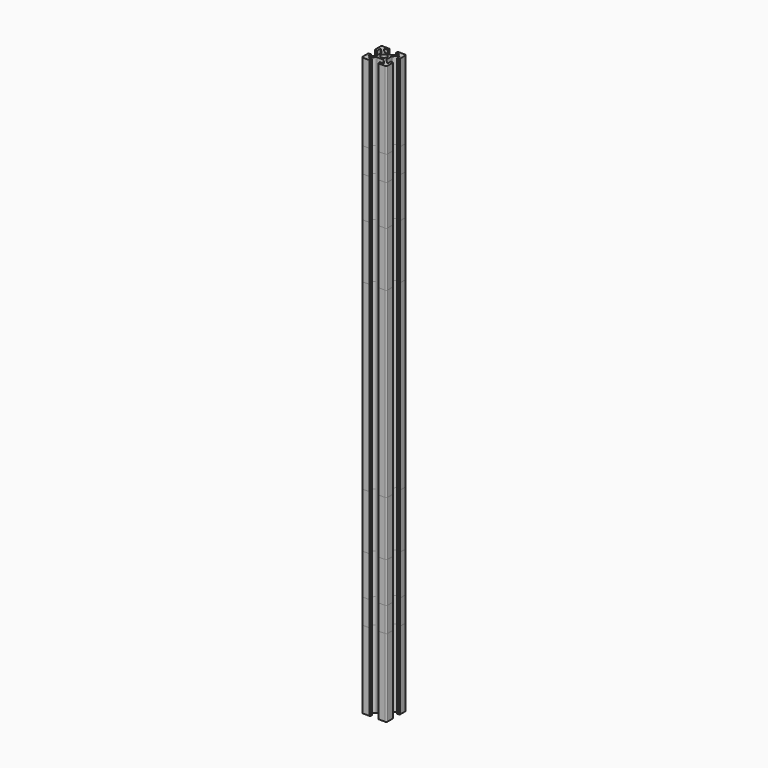
from build123d import *

# Parameters (mm, degrees)
F0_R     = 2.5
F1_DEPTH = 222.5
F2_DEPTH = 190
F3_DEPTH = 232.5
F4_DEPTH = 170
F5_DEPTH = 150
F6_DEPTH = 117.5
F7_DEPTH = 73.5


with BuildPart() as f1:
    # F0 (on Top) → F1 (new body, symmetric)
    with BuildSketch(Plane.XY):
        with BuildLine():
            Line((-3.0201010127, 4.2928932188), (-5.8736544033, 7.1464466094))
            ThreePointArc((-5.8736544033, 7.1464466094), (-5.9820407789, 7.6913417162), (-5.5201010127, 8))
            Line((-5.5201010127, 8), (-3.1, 8))
            Line((-3.1, 8), (-3.1, 9.5))
            Line((-3.1, 9.5), (-3.6, 9.5))
            Line((-3.6, 9.5), (-3.6, 10))
            Line((-3.6, 10), (-9, 10))
            ThreePointArc((-9, 10), (-9.7071067812, 9.7071067812), (-10, 9))
            Line((-10, 9), (-10, 3.6))
            Line((-10, 3.6), (-9.5, 3.6))
            Line((-9.5, 3.6), (-9.5, 3.1))
            Line((-9.5, 3.1), (-8, 3.1))
            Line((-8, 3.1), (-8, 5.5201010127))
            ThreePointArc((-8, 5.5201010127), (-7.6913417162, 5.9820407789), (-7.1464466094, 5.8736544033))
            Line((-7.1464466094, 5.8736544033), (-4.2928932188, 3.0201010127))
            ThreePointArc((-4.2928932188, 3.0201010127), (-4.0761204675, 2.6956776639), (-4, 2.3129942315))
            Line((-4, 2.3129942315), (-4, 0))
            Line((-4, 0), (-4, -2.3129942315))
            ThreePointArc((-4, -2.3129942315), (-4.0761204675, -2.6956776639), (-4.2928932188, -3.0201010127))
            Line((-4.2928932188, -3.0201010127), (-7.1464466094, -5.8736544033))
            ThreePointArc((-7.1464466094, -5.8736544033), (-7.6913417162, -5.9820407789), (-8, -5.5201010127))
            Line((-8, -5.5201010127), (-8, -3.1))
            Line((-8, -3.1), (-9.5, -3.1))
            Line((-9.5, -3.1), (-9.5, -3.6))
            Line((-9.5, -3.6), (-10, -3.6))
            Line((-10, -3.6), (-10, -9))
            ThreePointArc((-10, -9), (-9.7071067812, -9.7071067812), (-9, -10))
            Line((-9, -10), (-3.6, -10))
            Line((-3.6, -10), (-3.6, -9.5))
            Line((-3.6, -9.5), (-3.1, -9.5))
            Line((-3.1, -9.5), (-3.1, -8))
            Line((-3.1, -8), (-5.5201010127, -8))
            ThreePointArc((-5.5201010127, -8), (-5.9820407789, -7.6913417162), (-5.8736544033, -7.1464466094))
            Line((-5.8736544033, -7.1464466094), (-3.0201010127, -4.2928932188))
            ThreePointArc((-3.0201010127, -4.2928932188), (-2.6956776639, -4.0761204675), (-2.3129942315, -4))
            Line((-2.3129942315, -4), (0, -4))
            Line((0, -4), (2.3129942315, -4))
            ThreePointArc((2.3129942315, -4), (2.6956776639, -4.0761204675), (3.0201010127, -4.2928932188))
            Line((3.0201010127, -4.2928932188), (5.8736544033, -7.1464466094))
            ThreePointArc((5.8736544033, -7.1464466094), (5.9820407789, -7.6913417162), (5.5201010127, -8))
            Line((5.5201010127, -8), (3.1, -8))
            Line((3.1, -8), (3.1, -9.5))
            Line((3.1, -9.5), (3.6, -9.5))
            Line((3.6, -9.5), (3.6, -10))
            Line((3.6, -10), (9, -10))
            ThreePointArc((9, -10), (9.7071067812, -9.7071067812), (10, -9))
            Line((10, -9), (10, -3.6))
            Line((10, -3.6), (9.5, -3.6))
            Line((9.5, -3.6), (9.5, -3.1))
            Line((9.5, -3.1), (8, -3.1))
            Line((8, -3.1), (8, -5.5201010127))
            ThreePointArc((8, -5.5201010127), (7.6913417162, -5.9820407789), (7.1464466094, -5.8736544033))
            Line((7.1464466094, -5.8736544033), (4.2928932188, -3.0201010127))
            ThreePointArc((4.2928932188, -3.0201010127), (4.0761204675, -2.6956776639), (4, -2.3129942315))
            Line((4, -2.3129942315), (4, 0))
            Line((4, 0), (4, 2.3129942315))
            ThreePointArc((4, 2.3129942315), (4.0761204675, 2.6956776639), (4.2928932188, 3.0201010127))
            Line((4.2928932188, 3.0201010127), (7.1464466094, 5.8736544033))
            ThreePointArc((7.1464466094, 5.8736544033), (7.6913417162, 5.9820407789), (8, 5.5201010127))
            Line((8, 5.5201010127), (8, 3.1))
            Line((8, 3.1), (9.5, 3.1))
            Line((9.5, 3.1), (9.5, 3.6))
            Line((9.5, 3.6), (10, 3.6))
            Line((10, 3.6), (10, 9))
            ThreePointArc((10, 9), (9.7071067812, 9.7071067812), (9, 10))
            Line((9, 10), (3.6, 10))
            Line((3.6, 10), (3.6, 9.5))
            Line((3.6, 9.5), (3.1, 9.5))
            Line((3.1, 9.5), (3.1, 8))
            Line((3.1, 8), (5.5201010127, 8))
            ThreePointArc((5.5201010127, 8), (5.9820407789, 7.6913417162), (5.8736544033, 7.1464466094))
            Line((5.8736544033, 7.1464466094), (3.0201010127, 4.2928932188))
            ThreePointArc((3.0201010127, 4.2928932188), (2.6956776639, 4.0761204675), (2.3129942315, 4))
            Line((2.3129942315, 4), (0, 4))
            Line((0, 4), (-2.3129942315, 4))
            ThreePointArc((-2.3129942315, 4), (-2.6956776639, 4.0761204675), (-3.0201010127, 4.2928932188))
        make_face()
        Circle(F0_R, mode=Mode.SUBTRACT)
    extrude(amount=F1_DEPTH, both=True)


with BuildPart() as f2:
    # F0 (on Top) → F2 (new body, symmetric)
    with BuildSketch(Plane.XY):
        with BuildLine():
            Line((-3.0201010127, 4.2928932188), (-5.8736544033, 7.1464466094))
            ThreePointArc((-5.8736544033, 7.1464466094), (-5.9820407789, 7.6913417162), (-5.5201010127, 8))
            Line((-5.5201010127, 8), (-3.1, 8))
            Line((-3.1, 8), (-3.1, 9.5))
            Line((-3.1, 9.5), (-3.6, 9.5))
            Line((-3.6, 9.5), (-3.6, 10))
            Line((-3.6, 10), (-9, 10))
            ThreePointArc((-9, 10), (-9.7071067812, 9.7071067812), (-10, 9))
            Line((-10, 9), (-10, 3.6))
            Line((-10, 3.6), (-9.5, 3.6))
            Line((-9.5, 3.6), (-9.5, 3.1))
            Line((-9.5, 3.1), (-8, 3.1))
            Line((-8, 3.1), (-8, 5.5201010127))
            ThreePointArc((-8, 5.5201010127), (-7.6913417162, 5.9820407789), (-7.1464466094, 5.8736544033))
            Line((-7.1464466094, 5.8736544033), (-4.2928932188, 3.0201010127))
            ThreePointArc((-4.2928932188, 3.0201010127), (-4.0761204675, 2.6956776639), (-4, 2.3129942315))
            Line((-4, 2.3129942315), (-4, 0))
            Line((-4, 0), (-4, -2.3129942315))
            ThreePointArc((-4, -2.3129942315), (-4.0761204675, -2.6956776639), (-4.2928932188, -3.0201010127))
            Line((-4.2928932188, -3.0201010127), (-7.1464466094, -5.8736544033))
            ThreePointArc((-7.1464466094, -5.8736544033), (-7.6913417162, -5.9820407789), (-8, -5.5201010127))
            Line((-8, -5.5201010127), (-8, -3.1))
            Line((-8, -3.1), (-9.5, -3.1))
            Line((-9.5, -3.1), (-9.5, -3.6))
            Line((-9.5, -3.6), (-10, -3.6))
            Line((-10, -3.6), (-10, -9))
            ThreePointArc((-10, -9), (-9.7071067812, -9.7071067812), (-9, -10))
            Line((-9, -10), (-3.6, -10))
            Line((-3.6, -10), (-3.6, -9.5))
            Line((-3.6, -9.5), (-3.1, -9.5))
            Line((-3.1, -9.5), (-3.1, -8))
            Line((-3.1, -8), (-5.5201010127, -8))
            ThreePointArc((-5.5201010127, -8), (-5.9820407789, -7.6913417162), (-5.8736544033, -7.1464466094))
            Line((-5.8736544033, -7.1464466094), (-3.0201010127, -4.2928932188))
            ThreePointArc((-3.0201010127, -4.2928932188), (-2.6956776639, -4.0761204675), (-2.3129942315, -4))
            Line((-2.3129942315, -4), (0, -4))
            Line((0, -4), (2.3129942315, -4))
            ThreePointArc((2.3129942315, -4), (2.6956776639, -4.0761204675), (3.0201010127, -4.2928932188))
            Line((3.0201010127, -4.2928932188), (5.8736544033, -7.1464466094))
            ThreePointArc((5.8736544033, -7.1464466094), (5.9820407789, -7.6913417162), (5.5201010127, -8))
            Line((5.5201010127, -8), (3.1, -8))
            Line((3.1, -8), (3.1, -9.5))
            Line((3.1, -9.5), (3.6, -9.5))
            Line((3.6, -9.5), (3.6, -10))
            Line((3.6, -10), (9, -10))
            ThreePointArc((9, -10), (9.7071067812, -9.7071067812), (10, -9))
            Line((10, -9), (10, -3.6))
            Line((10, -3.6), (9.5, -3.6))
            Line((9.5, -3.6), (9.5, -3.1))
            Line((9.5, -3.1), (8, -3.1))
            Line((8, -3.1), (8, -5.5201010127))
            ThreePointArc((8, -5.5201010127), (7.6913417162, -5.9820407789), (7.1464466094, -5.8736544033))
            Line((7.1464466094, -5.8736544033), (4.2928932188, -3.0201010127))
            ThreePointArc((4.2928932188, -3.0201010127), (4.0761204675, -2.6956776639), (4, -2.3129942315))
            Line((4, -2.3129942315), (4, 0))
            Line((4, 0), (4, 2.3129942315))
            ThreePointArc((4, 2.3129942315), (4.0761204675, 2.6956776639), (4.2928932188, 3.0201010127))
            Line((4.2928932188, 3.0201010127), (7.1464466094, 5.8736544033))
            ThreePointArc((7.1464466094, 5.8736544033), (7.6913417162, 5.9820407789), (8, 5.5201010127))
            Line((8, 5.5201010127), (8, 3.1))
            Line((8, 3.1), (9.5, 3.1))
            Line((9.5, 3.1), (9.5, 3.6))
            Line((9.5, 3.6), (10, 3.6))
            Line((10, 3.6), (10, 9))
            ThreePointArc((10, 9), (9.7071067812, 9.7071067812), (9, 10))
            Line((9, 10), (3.6, 10))
            Line((3.6, 10), (3.6, 9.5))
            Line((3.6, 9.5), (3.1, 9.5))
            Line((3.1, 9.5), (3.1, 8))
            Line((3.1, 8), (5.5201010127, 8))
            ThreePointArc((5.5201010127, 8), (5.9820407789, 7.6913417162), (5.8736544033, 7.1464466094))
            Line((5.8736544033, 7.1464466094), (3.0201010127, 4.2928932188))
            ThreePointArc((3.0201010127, 4.2928932188), (2.6956776639, 4.0761204675), (2.3129942315, 4))
            Line((2.3129942315, 4), (0, 4))
            Line((0, 4), (-2.3129942315, 4))
            ThreePointArc((-2.3129942315, 4), (-2.6956776639, 4.0761204675), (-3.0201010127, 4.2928932188))
        make_face()
        Circle(F0_R, mode=Mode.SUBTRACT)
    extrude(amount=F2_DEPTH, both=True)


with BuildPart() as f3:
    # F0 (on Top) → F3 (new body, symmetric)
    with BuildSketch(Plane.XY):
        with BuildLine():
            Line((-3.0201010127, 4.2928932188), (-5.8736544033, 7.1464466094))
            ThreePointArc((-5.8736544033, 7.1464466094), (-5.9820407789, 7.6913417162), (-5.5201010127, 8))
            Line((-5.5201010127, 8), (-3.1, 8))
            Line((-3.1, 8), (-3.1, 9.5))
            Line((-3.1, 9.5), (-3.6, 9.5))
            Line((-3.6, 9.5), (-3.6, 10))
            Line((-3.6, 10), (-9, 10))
            ThreePointArc((-9, 10), (-9.7071067812, 9.7071067812), (-10, 9))
            Line((-10, 9), (-10, 3.6))
            Line((-10, 3.6), (-9.5, 3.6))
            Line((-9.5, 3.6), (-9.5, 3.1))
            Line((-9.5, 3.1), (-8, 3.1))
            Line((-8, 3.1), (-8, 5.5201010127))
            ThreePointArc((-8, 5.5201010127), (-7.6913417162, 5.9820407789), (-7.1464466094, 5.8736544033))
            Line((-7.1464466094, 5.8736544033), (-4.2928932188, 3.0201010127))
            ThreePointArc((-4.2928932188, 3.0201010127), (-4.0761204675, 2.6956776639), (-4, 2.3129942315))
            Line((-4, 2.3129942315), (-4, 0))
            Line((-4, 0), (-4, -2.3129942315))
            ThreePointArc((-4, -2.3129942315), (-4.0761204675, -2.6956776639), (-4.2928932188, -3.0201010127))
            Line((-4.2928932188, -3.0201010127), (-7.1464466094, -5.8736544033))
            ThreePointArc((-7.1464466094, -5.8736544033), (-7.6913417162, -5.9820407789), (-8, -5.5201010127))
            Line((-8, -5.5201010127), (-8, -3.1))
            Line((-8, -3.1), (-9.5, -3.1))
            Line((-9.5, -3.1), (-9.5, -3.6))
            Line((-9.5, -3.6), (-10, -3.6))
            Line((-10, -3.6), (-10, -9))
            ThreePointArc((-10, -9), (-9.7071067812, -9.7071067812), (-9, -10))
            Line((-9, -10), (-3.6, -10))
            Line((-3.6, -10), (-3.6, -9.5))
            Line((-3.6, -9.5), (-3.1, -9.5))
            Line((-3.1, -9.5), (-3.1, -8))
            Line((-3.1, -8), (-5.5201010127, -8))
            ThreePointArc((-5.5201010127, -8), (-5.9820407789, -7.6913417162), (-5.8736544033, -7.1464466094))
            Line((-5.8736544033, -7.1464466094), (-3.0201010127, -4.2928932188))
            ThreePointArc((-3.0201010127, -4.2928932188), (-2.6956776639, -4.0761204675), (-2.3129942315, -4))
            Line((-2.3129942315, -4), (0, -4))
            Line((0, -4), (2.3129942315, -4))
            ThreePointArc((2.3129942315, -4), (2.6956776639, -4.0761204675), (3.0201010127, -4.2928932188))
            Line((3.0201010127, -4.2928932188), (5.8736544033, -7.1464466094))
            ThreePointArc((5.8736544033, -7.1464466094), (5.9820407789, -7.6913417162), (5.5201010127, -8))
            Line((5.5201010127, -8), (3.1, -8))
            Line((3.1, -8), (3.1, -9.5))
            Line((3.1, -9.5), (3.6, -9.5))
            Line((3.6, -9.5), (3.6, -10))
            Line((3.6, -10), (9, -10))
            ThreePointArc((9, -10), (9.7071067812, -9.7071067812), (10, -9))
            Line((10, -9), (10, -3.6))
            Line((10, -3.6), (9.5, -3.6))
            Line((9.5, -3.6), (9.5, -3.1))
            Line((9.5, -3.1), (8, -3.1))
            Line((8, -3.1), (8, -5.5201010127))
            ThreePointArc((8, -5.5201010127), (7.6913417162, -5.9820407789), (7.1464466094, -5.8736544033))
            Line((7.1464466094, -5.8736544033), (4.2928932188, -3.0201010127))
            ThreePointArc((4.2928932188, -3.0201010127), (4.0761204675, -2.6956776639), (4, -2.3129942315))
            Line((4, -2.3129942315), (4, 0))
            Line((4, 0), (4, 2.3129942315))
            ThreePointArc((4, 2.3129942315), (4.0761204675, 2.6956776639), (4.2928932188, 3.0201010127))
            Line((4.2928932188, 3.0201010127), (7.1464466094, 5.8736544033))
            ThreePointArc((7.1464466094, 5.8736544033), (7.6913417162, 5.9820407789), (8, 5.5201010127))
            Line((8, 5.5201010127), (8, 3.1))
            Line((8, 3.1), (9.5, 3.1))
            Line((9.5, 3.1), (9.5, 3.6))
            Line((9.5, 3.6), (10, 3.6))
            Line((10, 3.6), (10, 9))
            ThreePointArc((10, 9), (9.7071067812, 9.7071067812), (9, 10))
            Line((9, 10), (3.6, 10))
            Line((3.6, 10), (3.6, 9.5))
            Line((3.6, 9.5), (3.1, 9.5))
            Line((3.1, 9.5), (3.1, 8))
            Line((3.1, 8), (5.5201010127, 8))
            ThreePointArc((5.5201010127, 8), (5.9820407789, 7.6913417162), (5.8736544033, 7.1464466094))
            Line((5.8736544033, 7.1464466094), (3.0201010127, 4.2928932188))
            ThreePointArc((3.0201010127, 4.2928932188), (2.6956776639, 4.0761204675), (2.3129942315, 4))
            Line((2.3129942315, 4), (0, 4))
            Line((0, 4), (-2.3129942315, 4))
            ThreePointArc((-2.3129942315, 4), (-2.6956776639, 4.0761204675), (-3.0201010127, 4.2928932188))
        make_face()
        Circle(F0_R, mode=Mode.SUBTRACT)
    extrude(amount=F3_DEPTH, both=True)


with BuildPart() as f4:
    # F0 (on Top) → F4 (new body, symmetric)
    with BuildSketch(Plane.XY):
        with BuildLine():
            Line((-3.0201010127, 4.2928932188), (-5.8736544033, 7.1464466094))
            ThreePointArc((-5.8736544033, 7.1464466094), (-5.9820407789, 7.6913417162), (-5.5201010127, 8))
            Line((-5.5201010127, 8), (-3.1, 8))
            Line((-3.1, 8), (-3.1, 9.5))
            Line((-3.1, 9.5), (-3.6, 9.5))
            Line((-3.6, 9.5), (-3.6, 10))
            Line((-3.6, 10), (-9, 10))
            ThreePointArc((-9, 10), (-9.7071067812, 9.7071067812), (-10, 9))
            Line((-10, 9), (-10, 3.6))
            Line((-10, 3.6), (-9.5, 3.6))
            Line((-9.5, 3.6), (-9.5, 3.1))
            Line((-9.5, 3.1), (-8, 3.1))
            Line((-8, 3.1), (-8, 5.5201010127))
            ThreePointArc((-8, 5.5201010127), (-7.6913417162, 5.9820407789), (-7.1464466094, 5.8736544033))
            Line((-7.1464466094, 5.8736544033), (-4.2928932188, 3.0201010127))
            ThreePointArc((-4.2928932188, 3.0201010127), (-4.0761204675, 2.6956776639), (-4, 2.3129942315))
            Line((-4, 2.3129942315), (-4, 0))
            Line((-4, 0), (-4, -2.3129942315))
            ThreePointArc((-4, -2.3129942315), (-4.0761204675, -2.6956776639), (-4.2928932188, -3.0201010127))
            Line((-4.2928932188, -3.0201010127), (-7.1464466094, -5.8736544033))
            ThreePointArc((-7.1464466094, -5.8736544033), (-7.6913417162, -5.9820407789), (-8, -5.5201010127))
            Line((-8, -5.5201010127), (-8, -3.1))
            Line((-8, -3.1), (-9.5, -3.1))
            Line((-9.5, -3.1), (-9.5, -3.6))
            Line((-9.5, -3.6), (-10, -3.6))
            Line((-10, -3.6), (-10, -9))
            ThreePointArc((-10, -9), (-9.7071067812, -9.7071067812), (-9, -10))
            Line((-9, -10), (-3.6, -10))
            Line((-3.6, -10), (-3.6, -9.5))
            Line((-3.6, -9.5), (-3.1, -9.5))
            Line((-3.1, -9.5), (-3.1, -8))
            Line((-3.1, -8), (-5.5201010127, -8))
            ThreePointArc((-5.5201010127, -8), (-5.9820407789, -7.6913417162), (-5.8736544033, -7.1464466094))
            Line((-5.8736544033, -7.1464466094), (-3.0201010127, -4.2928932188))
            ThreePointArc((-3.0201010127, -4.2928932188), (-2.6956776639, -4.0761204675), (-2.3129942315, -4))
            Line((-2.3129942315, -4), (0, -4))
            Line((0, -4), (2.3129942315, -4))
            ThreePointArc((2.3129942315, -4), (2.6956776639, -4.0761204675), (3.0201010127, -4.2928932188))
            Line((3.0201010127, -4.2928932188), (5.8736544033, -7.1464466094))
            ThreePointArc((5.8736544033, -7.1464466094), (5.9820407789, -7.6913417162), (5.5201010127, -8))
            Line((5.5201010127, -8), (3.1, -8))
            Line((3.1, -8), (3.1, -9.5))
            Line((3.1, -9.5), (3.6, -9.5))
            Line((3.6, -9.5), (3.6, -10))
            Line((3.6, -10), (9, -10))
            ThreePointArc((9, -10), (9.7071067812, -9.7071067812), (10, -9))
            Line((10, -9), (10, -3.6))
            Line((10, -3.6), (9.5, -3.6))
            Line((9.5, -3.6), (9.5, -3.1))
            Line((9.5, -3.1), (8, -3.1))
            Line((8, -3.1), (8, -5.5201010127))
            ThreePointArc((8, -5.5201010127), (7.6913417162, -5.9820407789), (7.1464466094, -5.8736544033))
            Line((7.1464466094, -5.8736544033), (4.2928932188, -3.0201010127))
            ThreePointArc((4.2928932188, -3.0201010127), (4.0761204675, -2.6956776639), (4, -2.3129942315))
            Line((4, -2.3129942315), (4, 0))
            Line((4, 0), (4, 2.3129942315))
            ThreePointArc((4, 2.3129942315), (4.0761204675, 2.6956776639), (4.2928932188, 3.0201010127))
            Line((4.2928932188, 3.0201010127), (7.1464466094, 5.8736544033))
            ThreePointArc((7.1464466094, 5.8736544033), (7.6913417162, 5.9820407789), (8, 5.5201010127))
            Line((8, 5.5201010127), (8, 3.1))
            Line((8, 3.1), (9.5, 3.1))
            Line((9.5, 3.1), (9.5, 3.6))
            Line((9.5, 3.6), (10, 3.6))
            Line((10, 3.6), (10, 9))
            ThreePointArc((10, 9), (9.7071067812, 9.7071067812), (9, 10))
            Line((9, 10), (3.6, 10))
            Line((3.6, 10), (3.6, 9.5))
            Line((3.6, 9.5), (3.1, 9.5))
            Line((3.1, 9.5), (3.1, 8))
            Line((3.1, 8), (5.5201010127, 8))
            ThreePointArc((5.5201010127, 8), (5.9820407789, 7.6913417162), (5.8736544033, 7.1464466094))
            Line((5.8736544033, 7.1464466094), (3.0201010127, 4.2928932188))
            ThreePointArc((3.0201010127, 4.2928932188), (2.6956776639, 4.0761204675), (2.3129942315, 4))
            Line((2.3129942315, 4), (0, 4))
            Line((0, 4), (-2.3129942315, 4))
            ThreePointArc((-2.3129942315, 4), (-2.6956776639, 4.0761204675), (-3.0201010127, 4.2928932188))
        make_face()
        Circle(F0_R, mode=Mode.SUBTRACT)
    extrude(amount=F4_DEPTH, both=True)


with BuildPart() as f5:
    # F0 (on Top) → F5 (new body, symmetric)
    with BuildSketch(Plane.XY):
        with BuildLine():
            Line((-3.0201010127, 4.2928932188), (-5.8736544033, 7.1464466094))
            ThreePointArc((-5.8736544033, 7.1464466094), (-5.9820407789, 7.6913417162), (-5.5201010127, 8))
            Line((-5.5201010127, 8), (-3.1, 8))
            Line((-3.1, 8), (-3.1, 9.5))
            Line((-3.1, 9.5), (-3.6, 9.5))
            Line((-3.6, 9.5), (-3.6, 10))
            Line((-3.6, 10), (-9, 10))
            ThreePointArc((-9, 10), (-9.7071067812, 9.7071067812), (-10, 9))
            Line((-10, 9), (-10, 3.6))
            Line((-10, 3.6), (-9.5, 3.6))
            Line((-9.5, 3.6), (-9.5, 3.1))
            Line((-9.5, 3.1), (-8, 3.1))
            Line((-8, 3.1), (-8, 5.5201010127))
            ThreePointArc((-8, 5.5201010127), (-7.6913417162, 5.9820407789), (-7.1464466094, 5.8736544033))
            Line((-7.1464466094, 5.8736544033), (-4.2928932188, 3.0201010127))
            ThreePointArc((-4.2928932188, 3.0201010127), (-4.0761204675, 2.6956776639), (-4, 2.3129942315))
            Line((-4, 2.3129942315), (-4, 0))
            Line((-4, 0), (-4, -2.3129942315))
            ThreePointArc((-4, -2.3129942315), (-4.0761204675, -2.6956776639), (-4.2928932188, -3.0201010127))
            Line((-4.2928932188, -3.0201010127), (-7.1464466094, -5.8736544033))
            ThreePointArc((-7.1464466094, -5.8736544033), (-7.6913417162, -5.9820407789), (-8, -5.5201010127))
            Line((-8, -5.5201010127), (-8, -3.1))
            Line((-8, -3.1), (-9.5, -3.1))
            Line((-9.5, -3.1), (-9.5, -3.6))
            Line((-9.5, -3.6), (-10, -3.6))
            Line((-10, -3.6), (-10, -9))
            ThreePointArc((-10, -9), (-9.7071067812, -9.7071067812), (-9, -10))
            Line((-9, -10), (-3.6, -10))
            Line((-3.6, -10), (-3.6, -9.5))
            Line((-3.6, -9.5), (-3.1, -9.5))
            Line((-3.1, -9.5), (-3.1, -8))
            Line((-3.1, -8), (-5.5201010127, -8))
            ThreePointArc((-5.5201010127, -8), (-5.9820407789, -7.6913417162), (-5.8736544033, -7.1464466094))
            Line((-5.8736544033, -7.1464466094), (-3.0201010127, -4.2928932188))
            ThreePointArc((-3.0201010127, -4.2928932188), (-2.6956776639, -4.0761204675), (-2.3129942315, -4))
            Line((-2.3129942315, -4), (0, -4))
            Line((0, -4), (2.3129942315, -4))
            ThreePointArc((2.3129942315, -4), (2.6956776639, -4.0761204675), (3.0201010127, -4.2928932188))
            Line((3.0201010127, -4.2928932188), (5.8736544033, -7.1464466094))
            ThreePointArc((5.8736544033, -7.1464466094), (5.9820407789, -7.6913417162), (5.5201010127, -8))
            Line((5.5201010127, -8), (3.1, -8))
            Line((3.1, -8), (3.1, -9.5))
            Line((3.1, -9.5), (3.6, -9.5))
            Line((3.6, -9.5), (3.6, -10))
            Line((3.6, -10), (9, -10))
            ThreePointArc((9, -10), (9.7071067812, -9.7071067812), (10, -9))
            Line((10, -9), (10, -3.6))
            Line((10, -3.6), (9.5, -3.6))
            Line((9.5, -3.6), (9.5, -3.1))
            Line((9.5, -3.1), (8, -3.1))
            Line((8, -3.1), (8, -5.5201010127))
            ThreePointArc((8, -5.5201010127), (7.6913417162, -5.9820407789), (7.1464466094, -5.8736544033))
            Line((7.1464466094, -5.8736544033), (4.2928932188, -3.0201010127))
            ThreePointArc((4.2928932188, -3.0201010127), (4.0761204675, -2.6956776639), (4, -2.3129942315))
            Line((4, -2.3129942315), (4, 0))
            Line((4, 0), (4, 2.3129942315))
            ThreePointArc((4, 2.3129942315), (4.0761204675, 2.6956776639), (4.2928932188, 3.0201010127))
            Line((4.2928932188, 3.0201010127), (7.1464466094, 5.8736544033))
            ThreePointArc((7.1464466094, 5.8736544033), (7.6913417162, 5.9820407789), (8, 5.5201010127))
            Line((8, 5.5201010127), (8, 3.1))
            Line((8, 3.1), (9.5, 3.1))
            Line((9.5, 3.1), (9.5, 3.6))
            Line((9.5, 3.6), (10, 3.6))
            Line((10, 3.6), (10, 9))
            ThreePointArc((10, 9), (9.7071067812, 9.7071067812), (9, 10))
            Line((9, 10), (3.6, 10))
            Line((3.6, 10), (3.6, 9.5))
            Line((3.6, 9.5), (3.1, 9.5))
            Line((3.1, 9.5), (3.1, 8))
            Line((3.1, 8), (5.5201010127, 8))
            ThreePointArc((5.5201010127, 8), (5.9820407789, 7.6913417162), (5.8736544033, 7.1464466094))
            Line((5.8736544033, 7.1464466094), (3.0201010127, 4.2928932188))
            ThreePointArc((3.0201010127, 4.2928932188), (2.6956776639, 4.0761204675), (2.3129942315, 4))
            Line((2.3129942315, 4), (0, 4))
            Line((0, 4), (-2.3129942315, 4))
            ThreePointArc((-2.3129942315, 4), (-2.6956776639, 4.0761204675), (-3.0201010127, 4.2928932188))
        make_face()
        Circle(F0_R, mode=Mode.SUBTRACT)
    extrude(amount=F5_DEPTH, both=True)


with BuildPart() as f6:
    # F0 (on Top) → F6 (new body, symmetric)
    with BuildSketch(Plane.XY):
        with BuildLine():
            Line((-3.0201010127, 4.2928932188), (-5.8736544033, 7.1464466094))
            ThreePointArc((-5.8736544033, 7.1464466094), (-5.9820407789, 7.6913417162), (-5.5201010127, 8))
            Line((-5.5201010127, 8), (-3.1, 8))
            Line((-3.1, 8), (-3.1, 9.5))
            Line((-3.1, 9.5), (-3.6, 9.5))
            Line((-3.6, 9.5), (-3.6, 10))
            Line((-3.6, 10), (-9, 10))
            ThreePointArc((-9, 10), (-9.7071067812, 9.7071067812), (-10, 9))
            Line((-10, 9), (-10, 3.6))
            Line((-10, 3.6), (-9.5, 3.6))
            Line((-9.5, 3.6), (-9.5, 3.1))
            Line((-9.5, 3.1), (-8, 3.1))
            Line((-8, 3.1), (-8, 5.5201010127))
            ThreePointArc((-8, 5.5201010127), (-7.6913417162, 5.9820407789), (-7.1464466094, 5.8736544033))
            Line((-7.1464466094, 5.8736544033), (-4.2928932188, 3.0201010127))
            ThreePointArc((-4.2928932188, 3.0201010127), (-4.0761204675, 2.6956776639), (-4, 2.3129942315))
            Line((-4, 2.3129942315), (-4, 0))
            Line((-4, 0), (-4, -2.3129942315))
            ThreePointArc((-4, -2.3129942315), (-4.0761204675, -2.6956776639), (-4.2928932188, -3.0201010127))
            Line((-4.2928932188, -3.0201010127), (-7.1464466094, -5.8736544033))
            ThreePointArc((-7.1464466094, -5.8736544033), (-7.6913417162, -5.9820407789), (-8, -5.5201010127))
            Line((-8, -5.5201010127), (-8, -3.1))
            Line((-8, -3.1), (-9.5, -3.1))
            Line((-9.5, -3.1), (-9.5, -3.6))
            Line((-9.5, -3.6), (-10, -3.6))
            Line((-10, -3.6), (-10, -9))
            ThreePointArc((-10, -9), (-9.7071067812, -9.7071067812), (-9, -10))
            Line((-9, -10), (-3.6, -10))
            Line((-3.6, -10), (-3.6, -9.5))
            Line((-3.6, -9.5), (-3.1, -9.5))
            Line((-3.1, -9.5), (-3.1, -8))
            Line((-3.1, -8), (-5.5201010127, -8))
            ThreePointArc((-5.5201010127, -8), (-5.9820407789, -7.6913417162), (-5.8736544033, -7.1464466094))
            Line((-5.8736544033, -7.1464466094), (-3.0201010127, -4.2928932188))
            ThreePointArc((-3.0201010127, -4.2928932188), (-2.6956776639, -4.0761204675), (-2.3129942315, -4))
            Line((-2.3129942315, -4), (0, -4))
            Line((0, -4), (2.3129942315, -4))
            ThreePointArc((2.3129942315, -4), (2.6956776639, -4.0761204675), (3.0201010127, -4.2928932188))
            Line((3.0201010127, -4.2928932188), (5.8736544033, -7.1464466094))
            ThreePointArc((5.8736544033, -7.1464466094), (5.9820407789, -7.6913417162), (5.5201010127, -8))
            Line((5.5201010127, -8), (3.1, -8))
            Line((3.1, -8), (3.1, -9.5))
            Line((3.1, -9.5), (3.6, -9.5))
            Line((3.6, -9.5), (3.6, -10))
            Line((3.6, -10), (9, -10))
            ThreePointArc((9, -10), (9.7071067812, -9.7071067812), (10, -9))
            Line((10, -9), (10, -3.6))
            Line((10, -3.6), (9.5, -3.6))
            Line((9.5, -3.6), (9.5, -3.1))
            Line((9.5, -3.1), (8, -3.1))
            Line((8, -3.1), (8, -5.5201010127))
            ThreePointArc((8, -5.5201010127), (7.6913417162, -5.9820407789), (7.1464466094, -5.8736544033))
            Line((7.1464466094, -5.8736544033), (4.2928932188, -3.0201010127))
            ThreePointArc((4.2928932188, -3.0201010127), (4.0761204675, -2.6956776639), (4, -2.3129942315))
            Line((4, -2.3129942315), (4, 0))
            Line((4, 0), (4, 2.3129942315))
            ThreePointArc((4, 2.3129942315), (4.0761204675, 2.6956776639), (4.2928932188, 3.0201010127))
            Line((4.2928932188, 3.0201010127), (7.1464466094, 5.8736544033))
            ThreePointArc((7.1464466094, 5.8736544033), (7.6913417162, 5.9820407789), (8, 5.5201010127))
            Line((8, 5.5201010127), (8, 3.1))
            Line((8, 3.1), (9.5, 3.1))
            Line((9.5, 3.1), (9.5, 3.6))
            Line((9.5, 3.6), (10, 3.6))
            Line((10, 3.6), (10, 9))
            ThreePointArc((10, 9), (9.7071067812, 9.7071067812), (9, 10))
            Line((9, 10), (3.6, 10))
            Line((3.6, 10), (3.6, 9.5))
            Line((3.6, 9.5), (3.1, 9.5))
            Line((3.1, 9.5), (3.1, 8))
            Line((3.1, 8), (5.5201010127, 8))
            ThreePointArc((5.5201010127, 8), (5.9820407789, 7.6913417162), (5.8736544033, 7.1464466094))
            Line((5.8736544033, 7.1464466094), (3.0201010127, 4.2928932188))
            ThreePointArc((3.0201010127, 4.2928932188), (2.6956776639, 4.0761204675), (2.3129942315, 4))
            Line((2.3129942315, 4), (0, 4))
            Line((0, 4), (-2.3129942315, 4))
            ThreePointArc((-2.3129942315, 4), (-2.6956776639, 4.0761204675), (-3.0201010127, 4.2928932188))
        make_face()
        Circle(F0_R, mode=Mode.SUBTRACT)
    extrude(amount=F6_DEPTH, both=True)


with BuildPart() as f7:
    # F0 (on Top) → F7 (new body, symmetric)
    with BuildSketch(Plane.XY):
        with BuildLine():
            Line((-3.0201010127, 4.2928932188), (-5.8736544033, 7.1464466094))
            ThreePointArc((-5.8736544033, 7.1464466094), (-5.9820407789, 7.6913417162), (-5.5201010127, 8))
            Line((-5.5201010127, 8), (-3.1, 8))
            Line((-3.1, 8), (-3.1, 9.5))
            Line((-3.1, 9.5), (-3.6, 9.5))
            Line((-3.6, 9.5), (-3.6, 10))
            Line((-3.6, 10), (-9, 10))
            ThreePointArc((-9, 10), (-9.7071067812, 9.7071067812), (-10, 9))
            Line((-10, 9), (-10, 3.6))
            Line((-10, 3.6), (-9.5, 3.6))
            Line((-9.5, 3.6), (-9.5, 3.1))
            Line((-9.5, 3.1), (-8, 3.1))
            Line((-8, 3.1), (-8, 5.5201010127))
            ThreePointArc((-8, 5.5201010127), (-7.6913417162, 5.9820407789), (-7.1464466094, 5.8736544033))
            Line((-7.1464466094, 5.8736544033), (-4.2928932188, 3.0201010127))
            ThreePointArc((-4.2928932188, 3.0201010127), (-4.0761204675, 2.6956776639), (-4, 2.3129942315))
            Line((-4, 2.3129942315), (-4, 0))
            Line((-4, 0), (-4, -2.3129942315))
            ThreePointArc((-4, -2.3129942315), (-4.0761204675, -2.6956776639), (-4.2928932188, -3.0201010127))
            Line((-4.2928932188, -3.0201010127), (-7.1464466094, -5.8736544033))
            ThreePointArc((-7.1464466094, -5.8736544033), (-7.6913417162, -5.9820407789), (-8, -5.5201010127))
            Line((-8, -5.5201010127), (-8, -3.1))
            Line((-8, -3.1), (-9.5, -3.1))
            Line((-9.5, -3.1), (-9.5, -3.6))
            Line((-9.5, -3.6), (-10, -3.6))
            Line((-10, -3.6), (-10, -9))
            ThreePointArc((-10, -9), (-9.7071067812, -9.7071067812), (-9, -10))
            Line((-9, -10), (-3.6, -10))
            Line((-3.6, -10), (-3.6, -9.5))
            Line((-3.6, -9.5), (-3.1, -9.5))
            Line((-3.1, -9.5), (-3.1, -8))
            Line((-3.1, -8), (-5.5201010127, -8))
            ThreePointArc((-5.5201010127, -8), (-5.9820407789, -7.6913417162), (-5.8736544033, -7.1464466094))
            Line((-5.8736544033, -7.1464466094), (-3.0201010127, -4.2928932188))
            ThreePointArc((-3.0201010127, -4.2928932188), (-2.6956776639, -4.0761204675), (-2.3129942315, -4))
            Line((-2.3129942315, -4), (0, -4))
            Line((0, -4), (2.3129942315, -4))
            ThreePointArc((2.3129942315, -4), (2.6956776639, -4.0761204675), (3.0201010127, -4.2928932188))
            Line((3.0201010127, -4.2928932188), (5.8736544033, -7.1464466094))
            ThreePointArc((5.8736544033, -7.1464466094), (5.9820407789, -7.6913417162), (5.5201010127, -8))
            Line((5.5201010127, -8), (3.1, -8))
            Line((3.1, -8), (3.1, -9.5))
            Line((3.1, -9.5), (3.6, -9.5))
            Line((3.6, -9.5), (3.6, -10))
            Line((3.6, -10), (9, -10))
            ThreePointArc((9, -10), (9.7071067812, -9.7071067812), (10, -9))
            Line((10, -9), (10, -3.6))
            Line((10, -3.6), (9.5, -3.6))
            Line((9.5, -3.6), (9.5, -3.1))
            Line((9.5, -3.1), (8, -3.1))
            Line((8, -3.1), (8, -5.5201010127))
            ThreePointArc((8, -5.5201010127), (7.6913417162, -5.9820407789), (7.1464466094, -5.8736544033))
            Line((7.1464466094, -5.8736544033), (4.2928932188, -3.0201010127))
            ThreePointArc((4.2928932188, -3.0201010127), (4.0761204675, -2.6956776639), (4, -2.3129942315))
            Line((4, -2.3129942315), (4, 0))
            Line((4, 0), (4, 2.3129942315))
            ThreePointArc((4, 2.3129942315), (4.0761204675, 2.6956776639), (4.2928932188, 3.0201010127))
            Line((4.2928932188, 3.0201010127), (7.1464466094, 5.8736544033))
            ThreePointArc((7.1464466094, 5.8736544033), (7.6913417162, 5.9820407789), (8, 5.5201010127))
            Line((8, 5.5201010127), (8, 3.1))
            Line((8, 3.1), (9.5, 3.1))
            Line((9.5, 3.1), (9.5, 3.6))
            Line((9.5, 3.6), (10, 3.6))
            Line((10, 3.6), (10, 9))
            ThreePointArc((10, 9), (9.7071067812, 9.7071067812), (9, 10))
            Line((9, 10), (3.6, 10))
            Line((3.6, 10), (3.6, 9.5))
            Line((3.6, 9.5), (3.1, 9.5))
            Line((3.1, 9.5), (3.1, 8))
            Line((3.1, 8), (5.5201010127, 8))
            ThreePointArc((5.5201010127, 8), (5.9820407789, 7.6913417162), (5.8736544033, 7.1464466094))
            Line((5.8736544033, 7.1464466094), (3.0201010127, 4.2928932188))
            ThreePointArc((3.0201010127, 4.2928932188), (2.6956776639, 4.0761204675), (2.3129942315, 4))
            Line((2.3129942315, 4), (0, 4))
            Line((0, 4), (-2.3129942315, 4))
            ThreePointArc((-2.3129942315, 4), (-2.6956776639, 4.0761204675), (-3.0201010127, 4.2928932188))
        make_face()
        Circle(F0_R, mode=Mode.SUBTRACT)
    extrude(amount=F7_DEPTH, both=True)


solid = Compound([f1.part, f2.part, f3.part, f4.part, f5.part, f6.part, f7.part])
